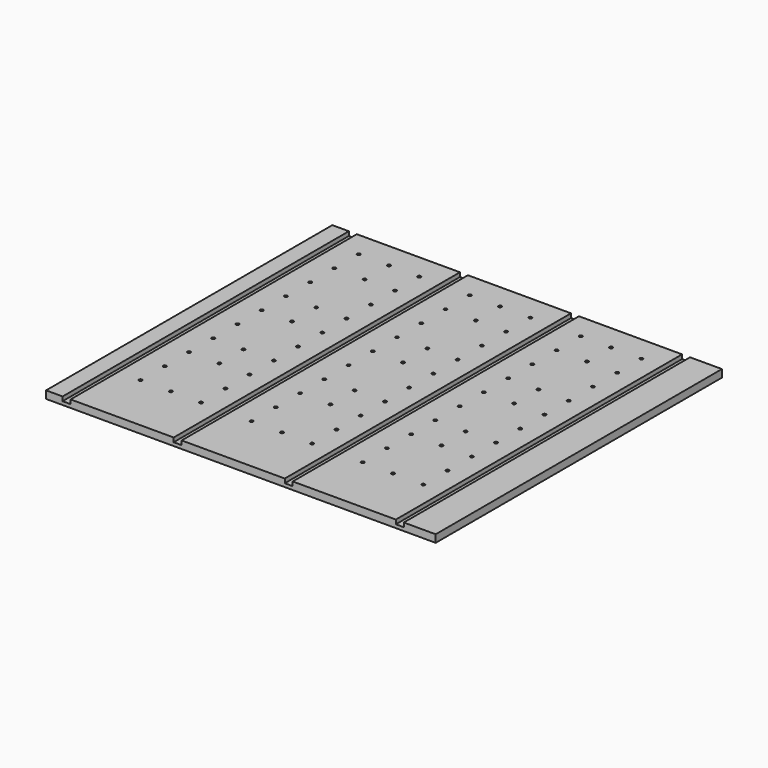
from build123d import *

# Parameters (mm, degrees)
SKETCH002_W           = 20.05
SKETCH002_H           = 1270
EXTRUDE002_DEPTH      = 12.7
EXTRUDE002_DEPTH_BACK = 10.525
SKETCH001_R           = 3.96875
EXTRUDE001_DEPTH      = 19.05
EXTRUDE001_DEPTH_BACK = 16.05
EXTRUDE_DEPTH         = 1219.2
BOX_W                 = 980
BOX_H                 = 900
BOX_DEPTH             = 50


with BuildPart() as extrude002:
    # Sketch002 (on Face1 of Cut) → Extrude002 (new body, two sides)
    with BuildSketch(Plane.XY) as extrude002_sk:
        with Locations((187.825, -609.6)):
            Rectangle(SKETCH002_W, SKETCH002_H)
        with Locations((467.225, -609.6)):
            Rectangle(SKETCH002_W, SKETCH002_H)
        with Locations((746.625, -609.6)):
            Rectangle(SKETCH002_W, SKETCH002_H)
        with Locations((1026.025, -609.6)):
            Rectangle(SKETCH002_W, SKETCH002_H)
    extrude(amount=EXTRUDE002_DEPTH)
    extrude(extrude002_sk.sketch, amount=-EXTRUDE002_DEPTH_BACK)


with BuildPart() as extrude001:
    # Sketch001 (on Face1 of Extrude) → Extrude001 (new body, two sides)
    with BuildSketch(Plane.XY) as extrude001_sk:
        with Locations((254, -152.4)):
            Circle(SKETCH001_R)
        with Locations((330.2, -152.4)):
            Circle(SKETCH001_R)
        with Locations((406.4, -152.4)):
            Circle(SKETCH001_R)
        with Locations((254, -228.6)):
            Circle(SKETCH001_R)
        with Locations((406.4, -228.6)):
            Circle(SKETCH001_R)
        with Locations((254, -304.8)):
            Circle(SKETCH001_R)
        with Locations((330.2, -304.8)):
            Circle(SKETCH001_R)
        with Locations((406.4, -304.8)):
            Circle(SKETCH001_R)
        with Locations((253.99999, -381)):
            Circle(SKETCH001_R)
        with Locations((330.19999, -381)):
            Circle(SKETCH001_R)
        with Locations((406.39999, -381)):
            Circle(SKETCH001_R)
        with Locations((253.99999, -457.2)):
            Circle(SKETCH001_R)
        with Locations((406.39999, -457.2)):
            Circle(SKETCH001_R)
        with Locations((253.99999, -533.4)):
            Circle(SKETCH001_R)
        with Locations((330.19999, -533.4)):
            Circle(SKETCH001_R)
        with Locations((406.39999, -533.4)):
            Circle(SKETCH001_R)
        with Locations((253.99998, -609.6)):
            Circle(SKETCH001_R)
        with Locations((330.19998, -609.6)):
            Circle(SKETCH001_R)
        with Locations((406.39998, -609.6)):
            Circle(SKETCH001_R)
        with Locations((253.99998, -685.8)):
            Circle(SKETCH001_R)
        with Locations((406.39998, -685.8)):
            Circle(SKETCH001_R)
        with Locations((253.99998, -762)):
            Circle(SKETCH001_R)
        with Locations((330.19998, -762)):
            Circle(SKETCH001_R)
        with Locations((406.39998, -762)):
            Circle(SKETCH001_R)
        with Locations((253.99997, -838.2)):
            Circle(SKETCH001_R)
        with Locations((330.19997, -838.2)):
            Circle(SKETCH001_R)
        with Locations((406.39997, -838.2)):
            Circle(SKETCH001_R)
        with Locations((253.99997, -914.4)):
            Circle(SKETCH001_R)
        with Locations((406.39997, -914.4)):
            Circle(SKETCH001_R)
        with Locations((253.99997, -990.6)):
            Circle(SKETCH001_R)
        with Locations((330.19997, -990.6)):
            Circle(SKETCH001_R)
        with Locations((406.39997, -990.6)):
            Circle(SKETCH001_R)
        with Locations((533.4, -152.4)):
            Circle(SKETCH001_R)
        with Locations((609.6, -152.4)):
            Circle(SKETCH001_R)
        with Locations((685.8, -152.4)):
            Circle(SKETCH001_R)
        with Locations((533.4, -228.6)):
            Circle(SKETCH001_R)
        with Locations((685.8, -228.6)):
            Circle(SKETCH001_R)
        with Locations((533.4, -304.8)):
            Circle(SKETCH001_R)
        with Locations((609.6, -304.8)):
            Circle(SKETCH001_R)
        with Locations((685.8, -304.8)):
            Circle(SKETCH001_R)
        with Locations((533.39999, -381)):
            Circle(SKETCH001_R)
        with Locations((609.59999, -381)):
            Circle(SKETCH001_R)
        with Locations((685.79999, -381)):
            Circle(SKETCH001_R)
        with Locations((533.39999, -457.2)):
            Circle(SKETCH001_R)
        with Locations((685.79999, -457.2)):
            Circle(SKETCH001_R)
        with Locations((533.39999, -533.4)):
            Circle(SKETCH001_R)
        with Locations((609.59999, -533.4)):
            Circle(SKETCH001_R)
        with Locations((685.79999, -533.4)):
            Circle(SKETCH001_R)
        with Locations((533.39998, -609.6)):
            Circle(SKETCH001_R)
        with Locations((609.59998, -609.6)):
            Circle(SKETCH001_R)
        with Locations((685.79998, -609.6)):
            Circle(SKETCH001_R)
        with Locations((533.39998, -685.8)):
            Circle(SKETCH001_R)
        with Locations((685.79998, -685.8)):
            Circle(SKETCH001_R)
        with Locations((533.39998, -762)):
            Circle(SKETCH001_R)
        with Locations((609.59998, -762)):
            Circle(SKETCH001_R)
        with Locations((685.79998, -762)):
            Circle(SKETCH001_R)
        with Locations((533.39997, -838.2)):
            Circle(SKETCH001_R)
        with Locations((609.59997, -838.2)):
            Circle(SKETCH001_R)
        with Locations((685.79997, -838.2)):
            Circle(SKETCH001_R)
        with Locations((533.39997, -914.4)):
            Circle(SKETCH001_R)
        with Locations((685.79997, -914.4)):
            Circle(SKETCH001_R)
        with Locations((533.39997, -990.6)):
            Circle(SKETCH001_R)
        with Locations((609.59997, -990.6)):
            Circle(SKETCH001_R)
        with Locations((685.79997, -990.6)):
            Circle(SKETCH001_R)
        with Locations((812.8, -152.4)):
            Circle(SKETCH001_R)
        with Locations((889, -152.4)):
            Circle(SKETCH001_R)
        with Locations((965.2, -152.4)):
            Circle(SKETCH001_R)
        with Locations((812.8, -228.6)):
            Circle(SKETCH001_R)
        with Locations((965.2, -228.6)):
            Circle(SKETCH001_R)
        with Locations((812.8, -304.8)):
            Circle(SKETCH001_R)
        with Locations((889, -304.8)):
            Circle(SKETCH001_R)
        with Locations((965.2, -304.8)):
            Circle(SKETCH001_R)
        with Locations((812.79999, -381)):
            Circle(SKETCH001_R)
        with Locations((888.99999, -381)):
            Circle(SKETCH001_R)
        with Locations((965.19999, -381)):
            Circle(SKETCH001_R)
        with Locations((812.79999, -457.2)):
            Circle(SKETCH001_R)
        with Locations((965.19999, -457.2)):
            Circle(SKETCH001_R)
        with Locations((812.79999, -533.4)):
            Circle(SKETCH001_R)
        with Locations((888.99999, -533.4)):
            Circle(SKETCH001_R)
        with Locations((965.19999, -533.4)):
            Circle(SKETCH001_R)
        with Locations((812.79998, -609.6)):
            Circle(SKETCH001_R)
        with Locations((888.99998, -609.6)):
            Circle(SKETCH001_R)
        with Locations((965.19998, -609.6)):
            Circle(SKETCH001_R)
        with Locations((812.79998, -685.8)):
            Circle(SKETCH001_R)
        with Locations((965.19998, -685.8)):
            Circle(SKETCH001_R)
        with Locations((812.79998, -762)):
            Circle(SKETCH001_R)
        with Locations((888.99998, -762)):
            Circle(SKETCH001_R)
        with Locations((965.19998, -762)):
            Circle(SKETCH001_R)
        with Locations((812.79997, -838.2)):
            Circle(SKETCH001_R)
        with Locations((888.99997, -838.2)):
            Circle(SKETCH001_R)
        with Locations((965.19997, -838.2)):
            Circle(SKETCH001_R)
        with Locations((812.79997, -914.4)):
            Circle(SKETCH001_R)
        with Locations((965.19997, -914.4)):
            Circle(SKETCH001_R)
        with Locations((812.79997, -990.6)):
            Circle(SKETCH001_R)
        with Locations((888.99997, -990.6)):
            Circle(SKETCH001_R)
        with Locations((965.19997, -990.6)):
            Circle(SKETCH001_R)
    extrude(amount=EXTRUDE001_DEPTH)
    extrude(extrude001_sk.sketch, amount=-EXTRUDE001_DEPTH_BACK)


with BuildPart() as cut001:
    # Sketch → Extrude (new body)
    with BuildSketch(Plane.XZ):
        Polygon((0, 0), (1219.2, 0), (1219.2, -12.7), (1193.8, -12.7), (1193.8, -19.05), (25.4, -19.05), (25.4, -12.7), (0, -12.7), align=None)
    extrude(amount=EXTRUDE_DEPTH)

    # Cut: cut Extrude001
    add(extrude001.part, mode=Mode.SUBTRACT)

    # Cut001: cut Extrude002
    add(extrude002.part, mode=Mode.SUBTRACT)


with BuildPart() as cut001_1:
    # Cut001 placement: moved
    add(cut001.part.moved(Location((-136.2, 1140.396, 0))))


with BuildPart() as common:
    # Box → Box (new body)
    with BuildSketch(Plane.XY.offset(-49)):
        with Locations((490, 450)):
            Rectangle(BOX_W, BOX_H)
    extrude(amount=BOX_DEPTH)

    # Common: intersect Cut001
    add(cut001_1.part, mode=Mode.INTERSECT)


solid = common.part
